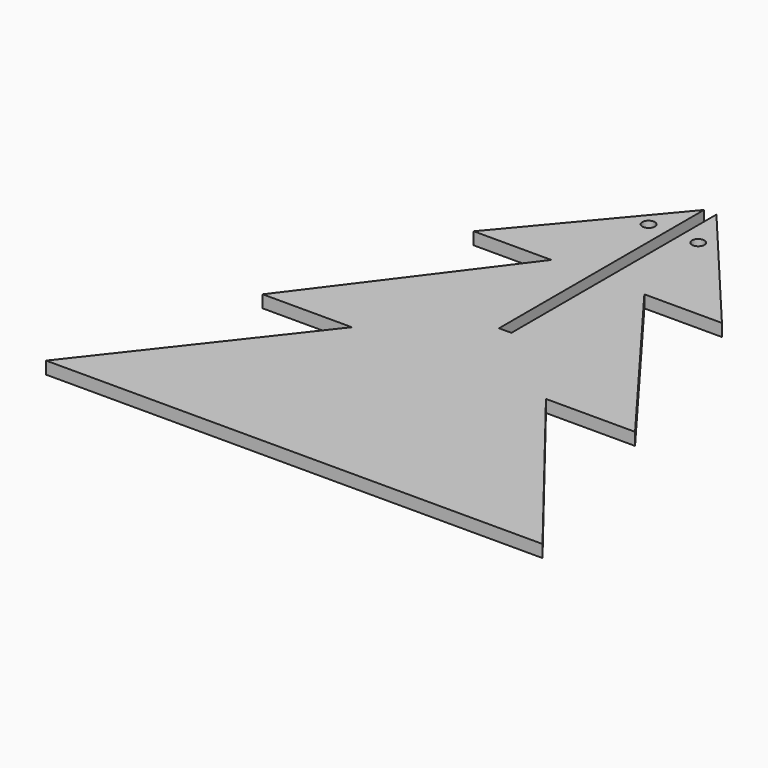
from build123d import *

# Parameters (mm, degrees)
F1_DEPTH = 2.54
F3_D     = 2.54


with BuildPart() as f1:
    # F0 (on Top) → F1 (new body)
    with BuildSketch(Plane.XY):
        Polygon((-1.27, 49.1066666667), (-1.27, 66.8570141893), (-25.4, 38.1), (-9.525, 38.1), align=None)
        Polygon((25.4, 38.1), (1.27, 66.8570141893), (1.27, 49.1066666667), (9.525, 38.1), align=None)
        Polygon((9.525, 38.1), (1.27, 49.1066666667), (1.27, 38.1), align=None)
        Polygon((-1.27, 38.1), (-1.27, 49.1066666667), (-9.525, 38.1), align=None)
        Polygon((-1.27, 38.1), (-9.525, 38.1), (-38.1, 0), (-19.8679617221, 0), (-1.27, 23.7763810072), align=None)
        Polygon((38.1, 0), (9.525, 38.1), (1.27, 38.1), (1.27, 23.7762289857), (19.8661016334, 0), align=None)
        Polygon((-1.27, 14.4082412519), (-1.27, 23.7763810072), (-19.8679617221, 0), (19.8661016334, 0), (1.27, 23.7762289857), (1.27, 14.4082412519), align=None)
        Polygon((19.8661016334, 0), (-19.8679617221, 0), (-50.8023781234, -39.5478), (50.7976218766, -39.5478), align=None)
    extrude(amount=F1_DEPTH)

    # F3 (through all)
    with Locations(Plane.XY.offset(2.54)):
        with Locations((-5.08, 57.4393868446), (5.08, 57.4393868446)):
            Hole(F3_D / 2)


solid = f1.part
